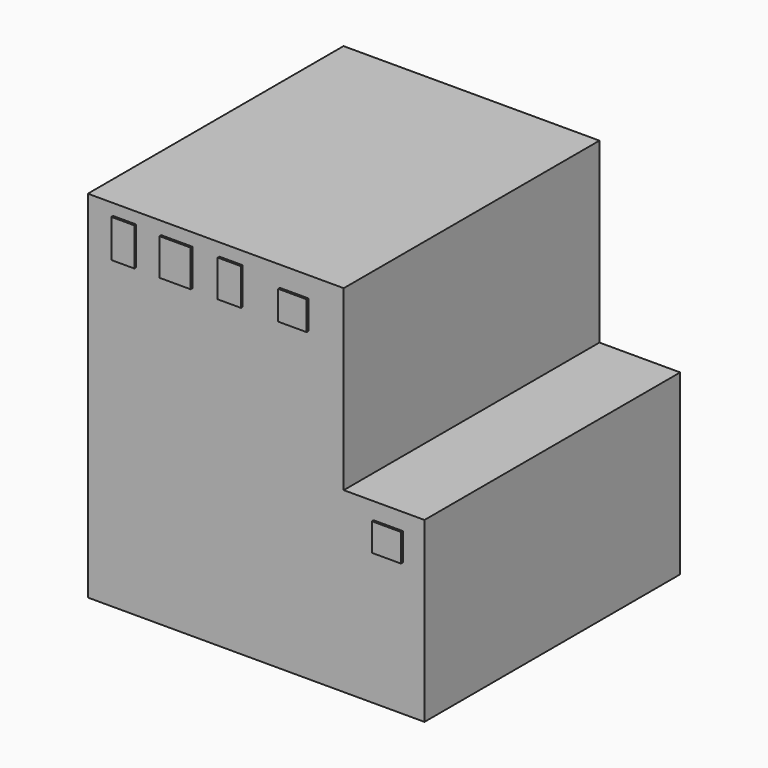
from build123d import *

# Parameters (mm, degrees)
F0_W     = 9.6260905266
F0_H     = 21.1938368157
F1_DEPTH = 12.7
F2_DEPTH = 25.4
F4_W     = 3.3827349544
F4_H     = 3.4457910806
F3_W     = 2.7738437057
F3_H     = 4.3759718537
F3_W_2   = 3.7164986134
F3_H_2   = 4.3712295592
F3_W_3   = 2.7477294207
F3_H_3   = 4.5251846313
F3_W_4   = 3.4826546907
F3_H_4   = 3.3152103424
F5_DEPTH = 0.254


with BuildPart() as f1:
    # F0 (on Front) → F1 (new body)
    with BuildSketch(Plane.XZ):
        Polygon((-85.2284654975, 24.0949820727), (-115.7357469201, 24.0949820727), (-115.7357469201, -18.2926915586), (-85.2284654975, -18.2926915586), (-85.2284654975, 2.9011452571), align=None)
        with Locations((-80.4154202342, -7.6957731508)):
            Rectangle(F0_W, F0_H)
    extrude(amount=F1_DEPTH)

    # F2 (add): a face of the model
    f2_faces = [f1.faces().sort_by_distance(p)[0] for p in [
        (-97.7476505301, -12.7, 1.4571198832),
    ]]
    extrude(f2_faces, amount=F2_DEPTH)

    # F4 (on face) + F3 (on face) → F5 (join)
    with BuildSketch(Plane.XZ.offset(38.1)):
        with Locations((-91.1433510482, 19.9342770502)):
            Rectangle(F4_W, F4_H)
    with BuildSketch(Plane.XZ.offset(38.1)):
        with Locations((-98.6624695361, 20.3993674368)):
            Rectangle(F3_W, F3_H)
        with Locations((-105.1291897893, 20.3969962895)):
            Rectangle(F3_W_2, F3_H_2)
        with Locations((-111.3641187549, 20.4739738256)):
            Rectangle(F3_W_3, F3_H_3)
        with Locations((-79.9321979284, -0.7592802867)):
            Rectangle(F3_W_4, F3_H_4)
    extrude(amount=F5_DEPTH)


solid = f1.part
